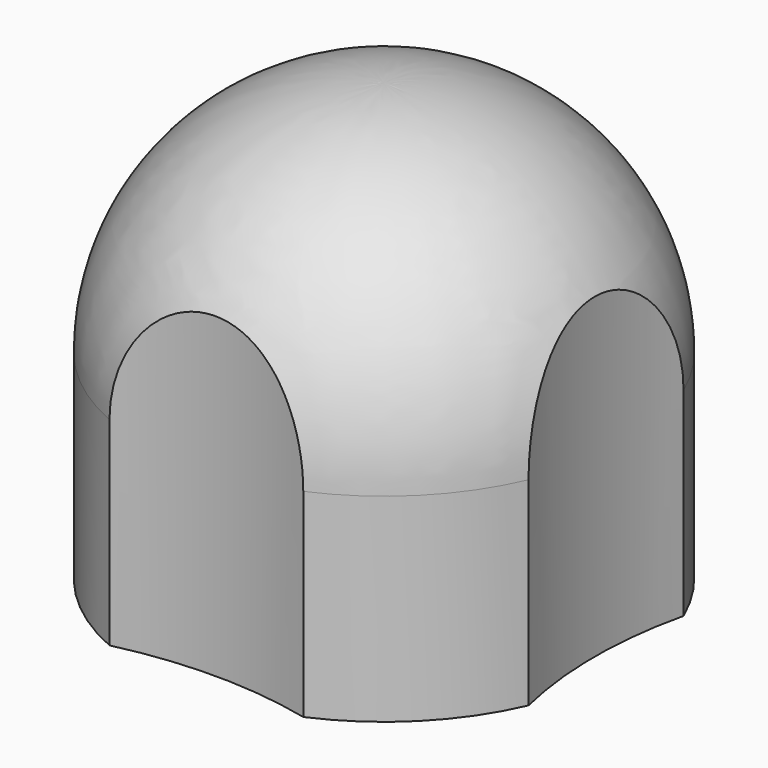
from build123d import *

# Parameters (mm, degrees)
F3_DEPTH = 25
F5_DEPTH = 0.875


with BuildPart() as f1:
    # F0 (on Front) → F1 (revolve)
    with BuildSketch(Plane.XZ):
        with BuildLine():
            Line((0, 18), (0, 0))
            Line((0, 0), (10, 0))
            Line((10, 0), (10, 8.2))
            ThreePointArc((10, 8.2), (7.0586999643, 15.2007142493), (0, 18))
        make_face()
    revolve(axis=Axis((0, 0, 9), (0, 0, 1)))

    # F2 (on face) → F3 (cut)
    with BuildSketch(Plane(origin=(0, 0, 0), x_dir=(1, 0, 0), z_dir=(0, 0, -1))):
        with BuildLine():
            ThreePointArc((4, 9.1651513899), (0, 10), (-4, 9.1651513899))
            ThreePointArc((-4, 9.1651513899), (0, 8.7), (4, 9.1651513899))
        make_face()
        with BuildLine():
            ThreePointArc((-9.1651513899, -4), (-8.7, 0), (-9.1651513899, 4))
            ThreePointArc((-9.1651513899, 4), (-10, 0), (-9.1651513899, -4))
        make_face()
        with BuildLine():
            ThreePointArc((4, -9.1651513899), (0, -8.7), (-4, -9.1651513899))
            ThreePointArc((-4, -9.1651513899), (0, -10), (4, -9.1651513899))
        make_face()
        with BuildLine():
            ThreePointArc((10, 0), (9.7890631293, 2.0430964369), (9.1651513899, 4))
            ThreePointArc((9.1651513899, 4), (8.7, 0), (9.1651513899, -4))
            ThreePointArc((9.1651513899, -4), (9.7890631293, -2.0430964369), (10, 0))
        make_face()
    extrude(amount=-F3_DEPTH, mode=Mode.SUBTRACT)

    # F4 (on Front) → F5 (cut, symmetric)
    with BuildSketch(Plane.XZ):
        Polygon((-2.375, 9.2), (-2.875, 0), (2.875, 0), (2.375, 9.2), (0, 9.2), align=None)
    extrude(amount=F5_DEPTH, both=True, mode=Mode.SUBTRACT)


solid = f1.part
